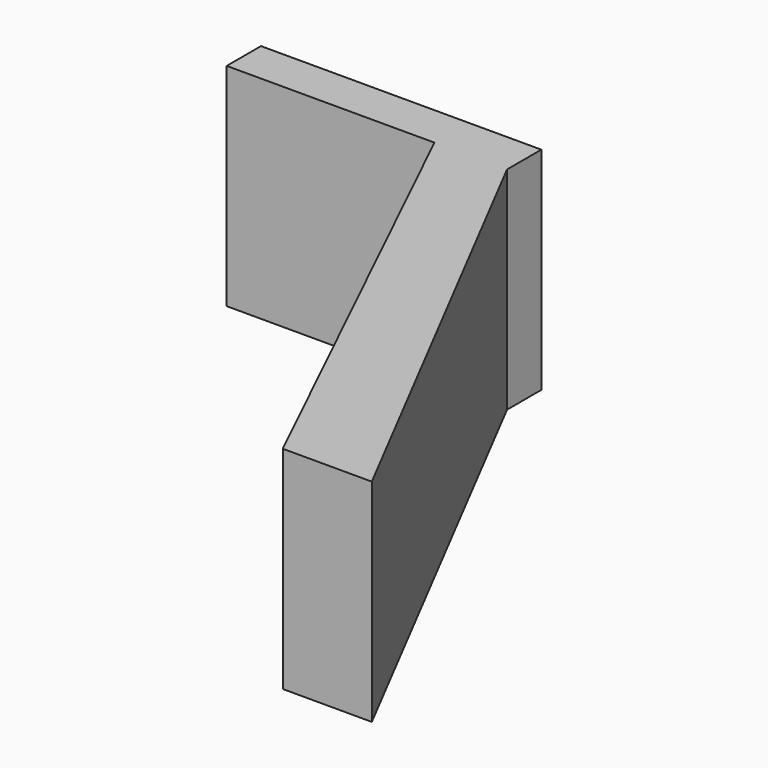
from build123d import *

# Parameters (mm, degrees)
F1_DEPTH = 25.4


with BuildPart() as f1:
    # F0 (on Top) → F1 (new body)
    with BuildSketch(Plane.XY):
        Polygon((-18.408129, 33.552699), (9.309769, -23.862943), (20.000957, -23.862943), (-9.696788, 33.552699), align=None)
        Polygon((-43.354239, 33.552699), (-18.408129, 33.552699), (-9.696788, 33.552699), (-9.696788, 38.700309), (-43.354239, 38.700309), align=None)
    extrude(amount=F1_DEPTH)


solid = f1.part
